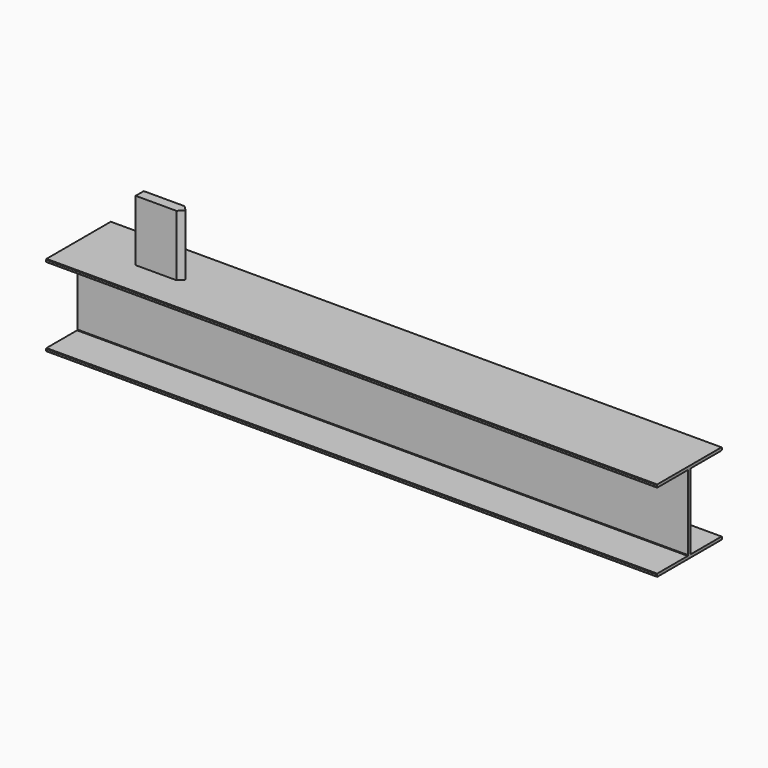
from build123d import *

# Parameters (mm, degrees)
F1_DEPTH = 1524
F2_SIZE  = 1.27
F3_SIZE  = 1.27
F5_DEPTH = 152.4


with BuildPart() as f1:
    # F0 (on Right) → F1 (new body)
    with BuildSketch(Plane.YZ):
        Polygon((101.6, 101.6), (-101.6, 101.6), (-101.6, 94.361), (-3.6195, 94.361), (-3.6195, 0), (0, 0), (3.6195, 0), (3.6195, 94.361), (101.6, 94.361), align=None)
        Polygon((0, 0), (-3.6195, 0), (-3.6195, -94.361), (-101.6, -94.361), (-101.6, -101.6), (101.6, -101.6), (101.6, -94.361), (3.6195, -94.361), (3.6195, 0), align=None)
    extrude(amount=F1_DEPTH)

    # F2
    f2_edges = [f1.edges().sort_by_distance(p)[0] for p in [
        (762, -101.6, 101.6),
        (762, -101.6, 94.361),
        (762, 101.6, 101.6),
        (762, 101.6, 94.361),
        (762, 101.6, -94.361),
        (762, 101.6, -101.6),
        (762, -101.6, -94.361),
        (762, -101.6, -101.6),
    ]]
    chamfer(f2_edges, length=F2_SIZE)

    # F3
    f3_edges = [f1.edges().sort_by_distance(p)[0] for p in [
        (762, -3.6195, 94.361),
        (762, 3.6195, 94.361),
        (762, 3.6195, -94.361),
        (762, -3.6195, -94.361),
    ]]
    chamfer(f3_edges, length=F3_SIZE)

    # F4 (on face) → F5 (join)
    with BuildSketch(Plane.XY.offset(101.6)):
        Polygon((152.4, 12.7), (152.4, -12.7), (254, -12.7), (266.7, 0), (254, 12.7), align=None)
    extrude(amount=F5_DEPTH)


solid = f1.part
